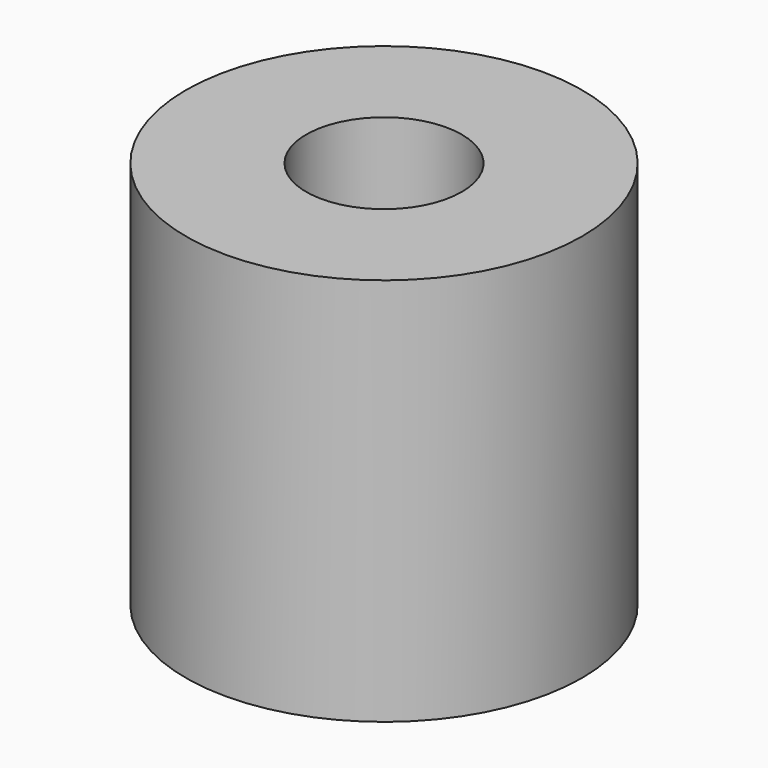
from build123d import *

# Parameters (mm, degrees)
F0_R     = 10.191703
F0_R_2   = 4
F1_DEPTH = 10


with BuildPart() as f1:
    # F0 (on Top) → F1 (new body, symmetric)
    with BuildSketch(Plane.XY):
        with Locations((-28.331937, -0.289576)):
            Circle(F0_R)
        with Locations((-28.331937, -0.289576)):
            Circle(F0_R_2, mode=Mode.SUBTRACT)
    extrude(amount=F1_DEPTH, both=True)


solid = f1.part
